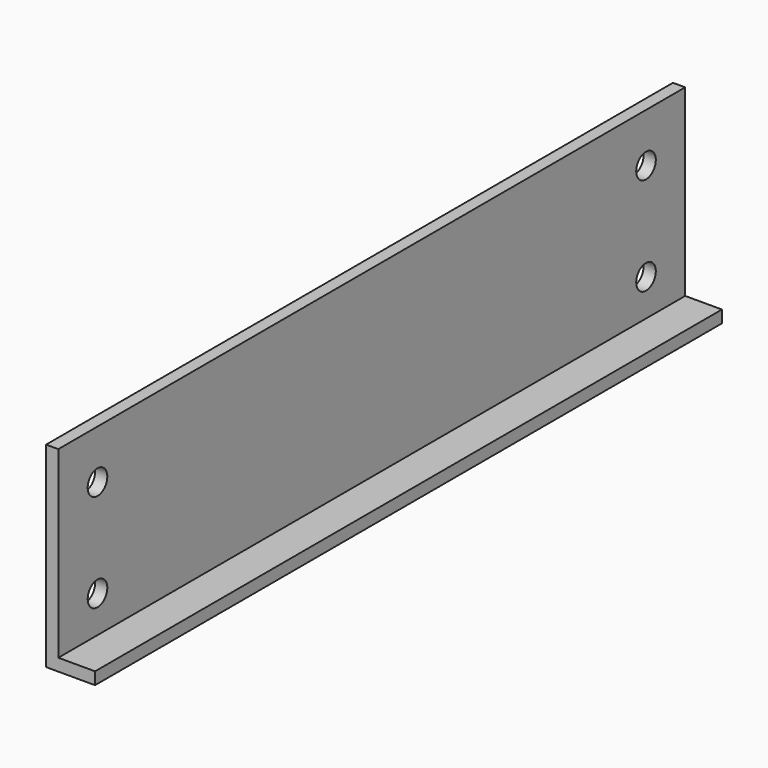
from build123d import *

# Parameters (mm, degrees)
F1_DEPTH = 101.6
F3_D     = 6.35


with BuildPart() as f1:
    # F0 (on Front) → F1 (new body)
    with BuildSketch(Plane.XZ):
        Polygon((-9.525, 50.8), (-12.7, 50.8), (-12.7, 0), (0, 0), (0, 3.175), (-9.525, 3.175), align=None)
    extrude(amount=F1_DEPTH)

    # F3 (through all)
    with Locations(Plane(origin=(-12.7, 0, 0), x_dir=(0, -1, 0), z_dir=(-1, 0, 0))):
        with Locations((88.9, 38.1), (88.9, 12.7)):
            Hole(F3_D / 2)

    # F4: F1 across plane


with BuildPart() as f1_1:
    add(f1.part)
    add(f1.part.mirror(Plane.XZ))


solid = f1_1.part
